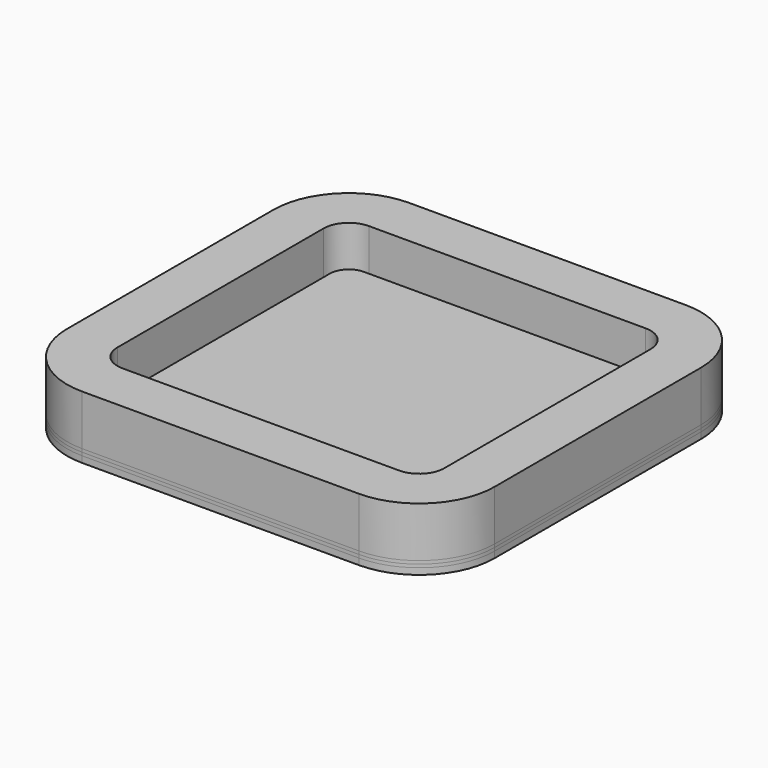
from build123d import *

# Parameters (mm, degrees)
F1_DEPTH = 25.4
F2_DEPTH = 6.35
F3_DEPTH = 1.5875
F4_DEPTH = 1.5875
F6_DEPTH = 3.175


with BuildPart() as f1:
    # F0 (on Top) → F1 (new body)
    with BuildSketch(Plane.XY):
        with BuildLine():
            ThreePointArc((-69.85, 103.1875), (-96.7907683632, 92.0282683632), (-107.95, 65.0875))
            Line((-107.95, 65.0875), (-107.95, -65.0875))
            ThreePointArc((-107.95, -65.0875), (-96.7907683632, -92.0282683632), (-69.85, -103.1875))
            Line((-69.85, -103.1875), (69.85, -103.1875))
            ThreePointArc((69.85, -103.1875), (96.7907683632, -92.0282683632), (107.95, -65.0875))
            Line((107.95, -65.0875), (107.95, 65.0875))
            ThreePointArc((107.95, 65.0875), (96.7907683632, 92.0282683632), (69.85, 103.1875))
            Line((69.85, 103.1875), (-69.85, 103.1875))
        make_face()
        with BuildLine():
            Line((-69.85, 77.7875), (69.85, 77.7875))
            ThreePointArc((69.85, 77.7875), (78.8302561211, 74.0677561211), (82.55, 65.0875))
            Line((82.55, 65.0875), (82.55, -65.0875))
            ThreePointArc((82.55, -65.0875), (78.8302561211, -74.0677561211), (69.85, -77.7875))
            Line((69.85, -77.7875), (-69.85, -77.7875))
            ThreePointArc((-69.85, -77.7875), (-78.8302561211, -74.0677561211), (-82.55, -65.0875))
            Line((-82.55, -65.0875), (-82.55, 65.0875))
            ThreePointArc((-82.55, 65.0875), (-78.8302561211, 74.0677561211), (-69.85, 77.7875))
        make_face(mode=Mode.SUBTRACT)
    extrude(amount=F1_DEPTH)


with BuildPart() as f2:
    # F0 (on Top) → F2 (new body)
    with BuildSketch(Plane.XY):
        with BuildLine():
            Line((79.375, -65.0875), (79.375, 65.0875))
            ThreePointArc((79.375, 65.0875), (76.5851920908, 71.8226920908), (69.85, 74.6125))
            Line((69.85, 74.6125), (-69.85, 74.6125))
            ThreePointArc((-69.85, 74.6125), (-76.5851920908, 71.8226920908), (-79.375, 65.0875))
            Line((-79.375, 65.0875), (-79.375, -65.0875))
            ThreePointArc((-79.375, -65.0875), (-76.5851920908, -71.8226920908), (-69.85, -74.6125))
            Line((-69.85, -74.6125), (69.85, -74.6125))
            ThreePointArc((69.85, -74.6125), (76.5851920908, -71.8226920908), (79.375, -65.0875))
        make_face()
        with BuildLine():
            ThreePointArc((73.025, -65.0875), (72.0950640303, -67.3325640303), (69.85, -68.2625))
            Line((69.85, -68.2625), (-69.85, -68.2625))
            ThreePointArc((-69.85, -68.2625), (-72.0950640303, -67.3325640303), (-73.025, -65.0875))
            Line((-73.025, -65.0875), (-73.025, 65.0875))
            ThreePointArc((-73.025, 65.0875), (-72.0950640303, 67.3325640303), (-69.85, 68.2625))
            Line((-69.85, 68.2625), (69.85, 68.2625))
            ThreePointArc((69.85, 68.2625), (72.0950640303, 67.3325640303), (73.025, 65.0875))
            Line((73.025, 65.0875), (73.025, -65.0875))
        make_face(mode=Mode.SUBTRACT)
        with BuildLine():
            Line((-69.85, -68.2625), (69.85, -68.2625))
            ThreePointArc((69.85, -68.2625), (72.0950640303, -67.3325640303), (73.025, -65.0875))
            Line((73.025, -65.0875), (73.025, 65.0875))
            ThreePointArc((73.025, 65.0875), (72.0950640303, 67.3325640303), (69.85, 68.2625))
            Line((69.85, 68.2625), (-69.85, 68.2625))
            ThreePointArc((-69.85, 68.2625), (-72.0950640303, 67.3325640303), (-73.025, 65.0875))
            Line((-73.025, 65.0875), (-73.025, -65.0875))
            ThreePointArc((-73.025, -65.0875), (-72.0950640303, -67.3325640303), (-69.85, -68.2625))
        make_face()
    extrude(amount=F2_DEPTH)


with BuildPart() as f3:
    # F0 (on Top) → F3 (new body)
    with BuildSketch(Plane.XY):
        with BuildLine():
            ThreePointArc((-69.85, 103.1875), (-96.7907683632, 92.0282683632), (-107.95, 65.0875))
            Line((-107.95, 65.0875), (-107.95, -65.0875))
            ThreePointArc((-107.95, -65.0875), (-96.7907683632, -92.0282683632), (-69.85, -103.1875))
            Line((-69.85, -103.1875), (69.85, -103.1875))
            ThreePointArc((69.85, -103.1875), (96.7907683632, -92.0282683632), (107.95, -65.0875))
            Line((107.95, -65.0875), (107.95, 65.0875))
            ThreePointArc((107.95, 65.0875), (96.7907683632, 92.0282683632), (69.85, 103.1875))
            Line((69.85, 103.1875), (-69.85, 103.1875))
        make_face()
        with BuildLine():
            Line((-69.85, 77.7875), (69.85, 77.7875))
            ThreePointArc((69.85, 77.7875), (78.8302561211, 74.0677561211), (82.55, 65.0875))
            Line((82.55, 65.0875), (82.55, -65.0875))
            ThreePointArc((82.55, -65.0875), (78.8302561211, -74.0677561211), (69.85, -77.7875))
            Line((69.85, -77.7875), (-69.85, -77.7875))
            ThreePointArc((-69.85, -77.7875), (-78.8302561211, -74.0677561211), (-82.55, -65.0875))
            Line((-82.55, -65.0875), (-82.55, 65.0875))
            ThreePointArc((-82.55, 65.0875), (-78.8302561211, 74.0677561211), (-69.85, 77.7875))
        make_face(mode=Mode.SUBTRACT)
        with BuildLine():
            ThreePointArc((82.55, 65.0875), (78.8302561211, 74.0677561211), (69.85, 77.7875))
            Line((69.85, 77.7875), (-69.85, 77.7875))
            ThreePointArc((-69.85, 77.7875), (-78.8302561211, 74.0677561211), (-82.55, 65.0875))
            Line((-82.55, 65.0875), (-82.55, -65.0875))
            ThreePointArc((-82.55, -65.0875), (-78.8302561211, -74.0677561211), (-69.85, -77.7875))
            Line((-69.85, -77.7875), (69.85, -77.7875))
            ThreePointArc((69.85, -77.7875), (78.8302561211, -74.0677561211), (82.55, -65.0875))
            Line((82.55, -65.0875), (82.55, 65.0875))
        make_face()
        with BuildLine():
            ThreePointArc((69.85, 74.6125), (76.5851920908, 71.8226920908), (79.375, 65.0875))
            Line((79.375, 65.0875), (79.375, -65.0875))
            ThreePointArc((79.375, -65.0875), (76.5851920908, -71.8226920908), (69.85, -74.6125))
            Line((69.85, -74.6125), (-69.85, -74.6125))
            ThreePointArc((-69.85, -74.6125), (-76.5851920908, -71.8226920908), (-79.375, -65.0875))
            Line((-79.375, -65.0875), (-79.375, 65.0875))
            ThreePointArc((-79.375, 65.0875), (-76.5851920908, 71.8226920908), (-69.85, 74.6125))
            Line((-69.85, 74.6125), (69.85, 74.6125))
        make_face(mode=Mode.SUBTRACT)
    extrude(amount=-F3_DEPTH)


with BuildPart() as f4:
    # F4 (new): a face of the model
    f4_faces = [f3.part.faces().sort_by_distance(p)[0] for p in [
        (94.6788563075, 89.9163563075, -1.5875),
    ]]
    extrude(f4_faces, amount=F4_DEPTH)


with BuildPart() as f6:
    # F5 (on face) → F6 (new body)
    with BuildSketch(Plane(origin=(0, 0, -3.175), x_dir=(1, 0, 0), z_dir=(0, 0, -1))):
        with BuildLine():
            ThreePointArc((-69.85, 103.1875), (-96.7907683632, 92.0282683632), (-107.95, 65.0875))
            Line((-107.95, 65.0875), (-107.95, -65.0875))
            ThreePointArc((-107.95, -65.0875), (-96.7907683632, -92.0282683632), (-69.85, -103.1875))
            Line((-69.85, -103.1875), (69.85, -103.1875))
            ThreePointArc((69.85, -103.1875), (96.7907683632, -92.0282683632), (107.95, -65.0875))
            Line((107.95, -65.0875), (107.95, 65.0875))
            ThreePointArc((107.95, 65.0875), (96.7907683632, 92.0282683632), (69.85, 103.1875))
            Line((69.85, 103.1875), (-69.85, 103.1875))
        make_face()
        with BuildLine():
            Line((-69.85, 77.7875), (69.85, 77.7875))
            ThreePointArc((69.85, 77.7875), (78.8302561211, 74.0677561211), (82.55, 65.0875))
            Line((82.55, 65.0875), (82.55, -65.0875))
            ThreePointArc((82.55, -65.0875), (78.8302561211, -74.0677561211), (69.85, -77.7875))
            Line((69.85, -77.7875), (-69.85, -77.7875))
            ThreePointArc((-69.85, -77.7875), (-78.8302561211, -74.0677561211), (-82.55, -65.0875))
            Line((-82.55, -65.0875), (-82.55, 65.0875))
            ThreePointArc((-82.55, 65.0875), (-78.8302561211, 74.0677561211), (-69.85, 77.7875))
        make_face(mode=Mode.SUBTRACT)
        with BuildLine():
            ThreePointArc((82.55, 65.0875), (78.8302561211, 74.0677561211), (69.85, 77.7875))
            Line((69.85, 77.7875), (-69.85, 77.7875))
            ThreePointArc((-69.85, 77.7875), (-78.8302561211, 74.0677561211), (-82.55, 65.0875))
            Line((-82.55, 65.0875), (-82.55, -65.0875))
            ThreePointArc((-82.55, -65.0875), (-78.8302561211, -74.0677561211), (-69.85, -77.7875))
            Line((-69.85, -77.7875), (69.85, -77.7875))
            ThreePointArc((69.85, -77.7875), (78.8302561211, -74.0677561211), (82.55, -65.0875))
            Line((82.55, -65.0875), (82.55, 65.0875))
        make_face()
        with BuildLine():
            ThreePointArc((69.85, 74.6125), (76.5851920908, 71.8226920908), (79.375, 65.0875))
            Line((79.375, 65.0875), (79.375, -65.0875))
            ThreePointArc((79.375, -65.0875), (76.5851920908, -71.8226920908), (69.85, -74.6125))
            Line((69.85, -74.6125), (-69.85, -74.6125))
            ThreePointArc((-69.85, -74.6125), (-76.5851920908, -71.8226920908), (-79.375, -65.0875))
            Line((-79.375, -65.0875), (-79.375, 65.0875))
            ThreePointArc((-79.375, 65.0875), (-76.5851920908, 71.8226920908), (-69.85, 74.6125))
            Line((-69.85, 74.6125), (69.85, 74.6125))
        make_face(mode=Mode.SUBTRACT)
        with BuildLine():
            Line((79.375, -65.0875), (79.375, 65.0875))
            ThreePointArc((79.375, 65.0875), (76.5851920908, 71.8226920908), (69.85, 74.6125))
            Line((69.85, 74.6125), (-69.85, 74.6125))
            ThreePointArc((-69.85, 74.6125), (-76.5851920908, 71.8226920908), (-79.375, 65.0875))
            Line((-79.375, 65.0875), (-79.375, -65.0875))
            ThreePointArc((-79.375, -65.0875), (-76.5851920908, -71.8226920908), (-69.85, -74.6125))
            Line((-69.85, -74.6125), (69.85, -74.6125))
            ThreePointArc((69.85, -74.6125), (76.5851920908, -71.8226920908), (79.375, -65.0875))
        make_face()
        with BuildLine():
            ThreePointArc((73.025, -65.0875), (72.0950640303, -67.3325640303), (69.85, -68.2625))
            Line((69.85, -68.2625), (-69.85, -68.2625))
            ThreePointArc((-69.85, -68.2625), (-72.0950640303, -67.3325640303), (-73.025, -65.0875))
            Line((-73.025, -65.0875), (-73.025, 65.0875))
            ThreePointArc((-73.025, 65.0875), (-72.0950640303, 67.3325640303), (-69.85, 68.2625))
            Line((-69.85, 68.2625), (69.85, 68.2625))
            ThreePointArc((69.85, 68.2625), (72.0950640303, 67.3325640303), (73.025, 65.0875))
            Line((73.025, 65.0875), (73.025, -65.0875))
        make_face(mode=Mode.SUBTRACT)
    extrude(amount=F6_DEPTH)


solid = Compound([f1.part, f2.part, f3.part, f4.part, f6.part])
